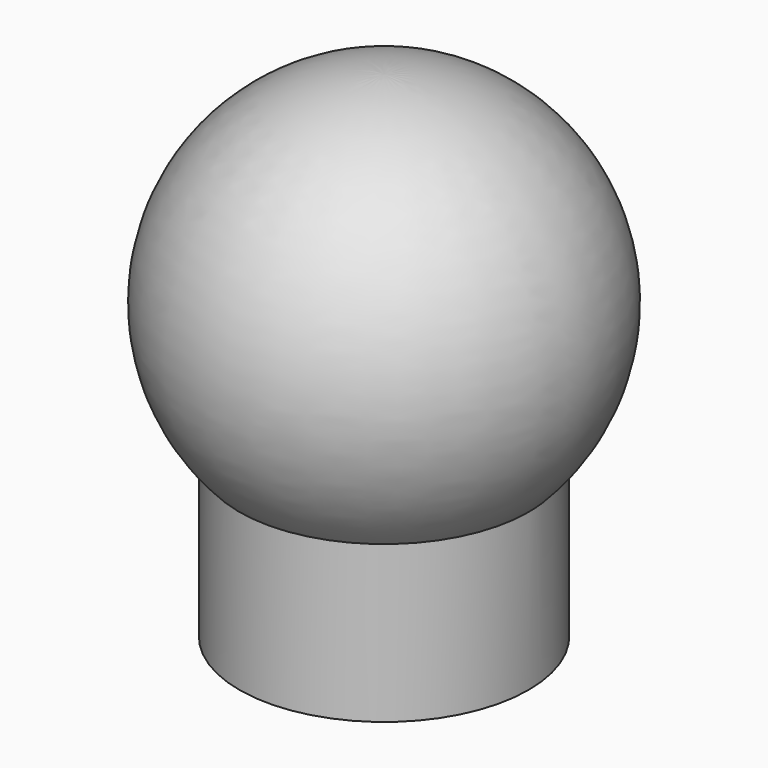
from build123d import *

# Parameters (mm, degrees)
SKETCH_R     = 13.75
PAD_DEPTH    = 15
SKETCH001_R  = 12.75
POCKET_DEPTH = 13


with BuildPart() as part:
    # Sketch → Pad (new body)
    with BuildSketch(Plane.XY):
        Circle(SKETCH_R)
    extrude(amount=PAD_DEPTH)

    # Sketch001 (on Face2 of Pad) → Pocket (cut)
    with BuildSketch(Plane(origin=(0, 0, 0), x_dir=(1, 0, 0), z_dir=(0, 0, -1))):
        Circle(SKETCH001_R)
    extrude(amount=-POCKET_DEPTH, mode=Mode.SUBTRACT)

    # Sphere → Sphere (revolve)
    with BuildSketch(Plane(origin=(0, 0, 28), x_dir=(1, 0, 0), z_dir=(0, -1, 0))):
        with BuildLine():
            ThreePointArc((13.435029, -13.435029), (17.553711, 7.270985), (0, 19))
            Line((0, 19), (0, -13.435029))
            Line((0, -13.435029), (13.435029, -13.435029))
        make_face()
    revolve(axis=Axis((0, 0, 28), (0, 0, 1)))


solid = part.part
